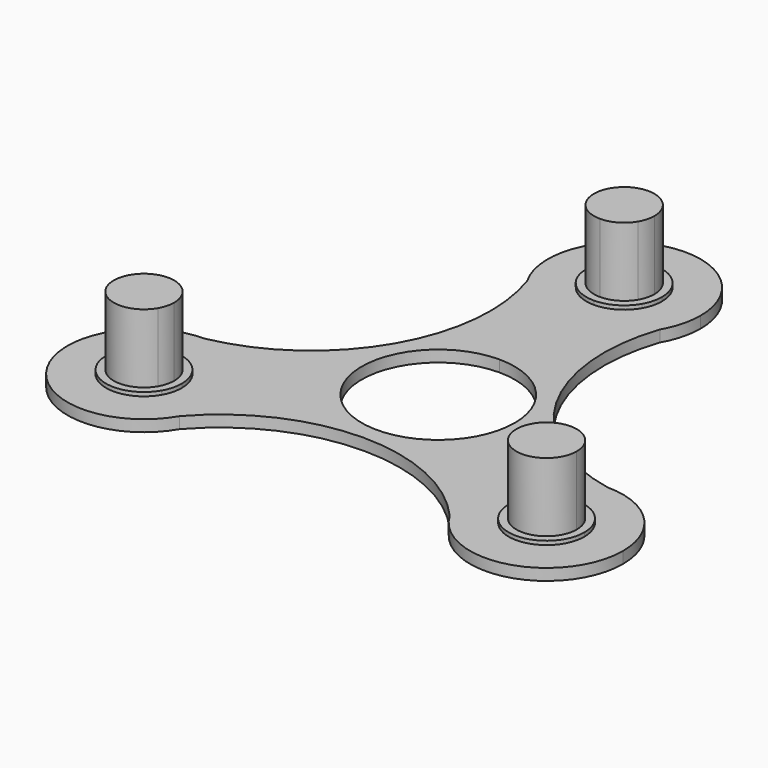
from build123d import *

# Parameters (mm, degrees)
F1_DEPTH = 1.5
F2_DEPTH = 2
F3_DEPTH = 11


with BuildPart() as f1:
    # F0 (on Top) → F1 (new body)
    with BuildSketch(Plane.XY):
        with BuildLine():
            ThreePointArc((10, 30.4), (-2.588190451, 40.0592582629), (-8.6602540378, 25.4))
            Line((-8.6602540378, 25.4), (-4.2868257487, 27.925))
            ThreePointArc((-4.2868257487, 27.925), (-1.2811542733, 35.1813328401), (4.95, 30.4))
            ThreePointArc((4.95, 30.4), (4.7813328401, 29.1188457267), (4.2868257487, 27.925))
            Line((4.2868257487, 27.925), (8.6602540378, 25.4))
            ThreePointArc((8.6602540378, 25.4), (9.6592582629, 27.811809549), (10, 30.4))
        make_face()
        with BuildLine():
            Line((0, 25.45), (0, 20.4))
            ThreePointArc((0, 20.4), (5, 21.7397459622), (8.6602540378, 25.4))
            Line((8.6602540378, 25.4), (4.2868257487, 27.925))
            ThreePointArc((4.2868257487, 27.925), (2.475, 26.1131742513), (0, 25.45))
        make_face()
        with BuildLine():
            ThreePointArc((-8.6602540378, 25.4), (-5, 21.7397459622), (0, 20.4))
            Line((0, 20.4), (0, 25.45))
            ThreePointArc((0, 25.45), (-2.475, 26.1131742513), (-4.2868257487, 27.925))
            Line((-4.2868257487, 27.925), (-8.6602540378, 25.4))
        make_face()
        with BuildLine():
            ThreePointArc((8.6602540378, 25.4), (5, 21.7397459622), (0, 20.4))
            ThreePointArc((0, 20.4), (-5, 21.7397459622), (-8.6602540378, 25.4))
            ThreePointArc((-8.6602540378, 25.4), (-10.5489683598, 6.0904497222), (-26.327172275, -5.2))
            ThreePointArc((-26.327172275, -5.2), (-19.2561044632, -8.1289321881), (-16.327172275, -15.2))
            ThreePointArc((-16.327172275, -15.2), (-16.6679140122, -17.788190451), (-17.6669182372, -20.2))
            ThreePointArc((-17.6669182372, -20.2), (0, -12.1808994444), (17.6669182372, -20.2))
            ThreePointArc((17.6669182372, -20.2), (17.6669182372, -10.2), (26.327172275, -5.2))
            ThreePointArc((26.327172275, -5.2), (10.5489683598, 6.0904497222), (8.6602540378, 25.4))
        make_face()
        with BuildLine():
            ThreePointArc((0, 10), (7.0710678119, 7.0710678119), (10, 0))
            ThreePointArc((10, 0), (-7.0710678119, -7.0710678119), (0, 10))
        make_face(mode=Mode.SUBTRACT)
        with BuildLine():
            ThreePointArc((-16.327172275, -15.2), (-19.2561044632, -8.1289321881), (-26.327172275, -5.2))
            Line((-26.327172275, -5.2), (-26.327172275, -10.25))
            ThreePointArc((-26.327172275, -10.25), (-22.8269937082, -11.6998214331), (-21.377172275, -15.2))
            ThreePointArc((-21.377172275, -15.2), (-21.5458394349, -16.4811542733), (-22.0403465263, -17.675))
            Line((-22.0403465263, -17.675), (-17.6669182372, -20.2))
            ThreePointArc((-17.6669182372, -20.2), (-16.6679140122, -17.788190451), (-16.327172275, -15.2))
        make_face()
        with BuildLine():
            Line((-26.327172275, -10.25), (-26.327172275, -5.2))
            ThreePointArc((-26.327172275, -5.2), (-34.9874263129, -20.2), (-17.6669182372, -20.2))
            Line((-17.6669182372, -20.2), (-22.0403465263, -17.675))
            ThreePointArc((-22.0403465263, -17.675), (-30.6139980238, -17.675), (-26.327172275, -10.25))
        make_face()
        with BuildLine():
            ThreePointArc((36.327172275, -15.2), (33.3982400869, -8.1289321881), (26.327172275, -5.2))
            Line((26.327172275, -5.2), (26.327172275, -10.25))
            ThreePointArc((26.327172275, -10.25), (29.8273508419, -11.6998214331), (31.277172275, -15.2))
            ThreePointArc((31.277172275, -15.2), (27.6083265483, -19.9813328401), (22.0403465263, -17.675))
            Line((22.0403465263, -17.675), (17.6669182372, -20.2))
            ThreePointArc((17.6669182372, -20.2), (28.9153627261, -24.8592582629), (36.327172275, -15.2))
        make_face()
        with BuildLine():
            Line((26.327172275, -10.25), (26.327172275, -5.2))
            ThreePointArc((26.327172275, -5.2), (17.6669182372, -10.2), (17.6669182372, -20.2))
            Line((17.6669182372, -20.2), (22.0403465263, -17.675))
            ThreePointArc((22.0403465263, -17.675), (22.0403465263, -12.725), (26.327172275, -10.25))
        make_face()
    extrude(amount=F1_DEPTH)

    # F0 (on Top) → F2 (join)
    with BuildSketch(Plane.XY):
        with BuildLine():
            ThreePointArc((4.95, 30.4), (-1.2811542733, 35.1813328401), (-4.2868257487, 27.925))
            Line((-4.2868257487, 27.925), (-3.4208003449, 28.425))
            ThreePointArc((-3.4208003449, 28.425), (-1.0223352282, 34.2154070138), (3.95, 30.4))
            ThreePointArc((3.95, 30.4), (3.8154070138, 29.3776647718), (3.4208003449, 28.425))
            Line((3.4208003449, 28.425), (4.2868257487, 27.925))
            ThreePointArc((4.2868257487, 27.925), (4.7813328401, 29.1188457267), (4.95, 30.4))
        make_face()
        with BuildLine():
            ThreePointArc((-4.2868257487, 27.925), (-2.475, 26.1131742513), (0, 25.45))
            Line((0, 25.45), (0, 26.45))
            ThreePointArc((0, 26.45), (-1.975, 26.9791996551), (-3.4208003449, 28.425))
            Line((-3.4208003449, 28.425), (-4.2868257487, 27.925))
        make_face()
        with BuildLine():
            Line((0, 26.45), (0, 25.45))
            ThreePointArc((0, 25.45), (2.475, 26.1131742513), (4.2868257487, 27.925))
            Line((4.2868257487, 27.925), (3.4208003449, 28.425))
            ThreePointArc((3.4208003449, 28.425), (1.975, 26.9791996551), (0, 26.45))
        make_face()
        with BuildLine():
            Line((26.327172275, -11.25), (26.327172275, -10.25))
            ThreePointArc((26.327172275, -10.25), (22.0403465263, -12.725), (22.0403465263, -17.675))
            Line((22.0403465263, -17.675), (22.9063719301, -17.175))
            ThreePointArc((22.9063719301, -17.175), (22.9063719301, -13.225), (26.327172275, -11.25))
        make_face()
        with BuildLine():
            ThreePointArc((31.277172275, -15.2), (29.8273508419, -11.6998214331), (26.327172275, -10.25))
            Line((26.327172275, -10.25), (26.327172275, -11.25))
            ThreePointArc((26.327172275, -11.25), (29.1202440607, -12.4069282143), (30.277172275, -15.2))
            ThreePointArc((30.277172275, -15.2), (27.3495075032, -19.0154070138), (22.9063719301, -17.175))
            Line((22.9063719301, -17.175), (22.0403465263, -17.675))
            ThreePointArc((22.0403465263, -17.675), (27.6083265483, -19.9813328401), (31.277172275, -15.2))
        make_face()
        with BuildLine():
            Line((-26.327172275, -11.25), (-26.327172275, -10.25))
            ThreePointArc((-26.327172275, -10.25), (-30.6139980238, -17.675), (-22.0403465263, -17.675))
            Line((-22.0403465263, -17.675), (-22.9063719301, -17.175))
            ThreePointArc((-22.9063719301, -17.175), (-29.74797262, -17.175), (-26.327172275, -11.25))
        make_face()
        with BuildLine():
            ThreePointArc((-21.377172275, -15.2), (-22.8269937082, -11.6998214331), (-26.327172275, -10.25))
            Line((-26.327172275, -10.25), (-26.327172275, -11.25))
            ThreePointArc((-26.327172275, -11.25), (-23.5341004894, -12.4069282143), (-22.377172275, -15.2))
            ThreePointArc((-22.377172275, -15.2), (-22.5117652612, -16.2223352282), (-22.9063719301, -17.175))
            Line((-22.9063719301, -17.175), (-22.0403465263, -17.675))
            ThreePointArc((-22.0403465263, -17.675), (-21.5458394349, -16.4811542733), (-21.377172275, -15.2))
        make_face()
    extrude(amount=F2_DEPTH)

    # F0 (on Top) → F3 (join)
    with BuildSketch(Plane.XY):
        with BuildLine():
            Line((-3.4208003449, 28.425), (0, 30.4))
            Line((0, 30.4), (3.4208003449, 28.425))
            ThreePointArc((3.4208003449, 28.425), (3.8154070138, 29.3776647718), (3.95, 30.4))
            ThreePointArc((3.95, 30.4), (-1.0223352282, 34.2154070138), (-3.4208003449, 28.425))
        make_face()
        with BuildLine():
            ThreePointArc((-3.4208003449, 28.425), (-1.975, 26.9791996551), (0, 26.45))
            Line((0, 26.45), (0, 30.4))
            Line((0, 30.4), (-3.4208003449, 28.425))
        make_face()
        with BuildLine():
            Line((0, 30.4), (0, 26.45))
            ThreePointArc((0, 26.45), (1.975, 26.9791996551), (3.4208003449, 28.425))
            Line((3.4208003449, 28.425), (0, 30.4))
        make_face()
        with BuildLine():
            ThreePointArc((-22.377172275, -15.2), (-23.5341004894, -12.4069282143), (-26.327172275, -11.25))
            Line((-26.327172275, -11.25), (-26.327172275, -15.2))
            Line((-26.327172275, -15.2), (-22.9063719301, -17.175))
            ThreePointArc((-22.9063719301, -17.175), (-22.5117652612, -16.2223352282), (-22.377172275, -15.2))
        make_face()
        with BuildLine():
            Line((-26.327172275, -15.2), (-26.327172275, -11.25))
            ThreePointArc((-26.327172275, -11.25), (-29.74797262, -17.175), (-22.9063719301, -17.175))
            Line((-22.9063719301, -17.175), (-26.327172275, -15.2))
        make_face()
        with BuildLine():
            Line((26.327172275, -15.2), (26.327172275, -11.25))
            ThreePointArc((26.327172275, -11.25), (22.9063719301, -13.225), (22.9063719301, -17.175))
            Line((22.9063719301, -17.175), (26.327172275, -15.2))
        make_face()
        with BuildLine():
            ThreePointArc((30.277172275, -15.2), (29.1202440607, -12.4069282143), (26.327172275, -11.25))
            Line((26.327172275, -11.25), (26.327172275, -15.2))
            Line((26.327172275, -15.2), (22.9063719301, -17.175))
            ThreePointArc((22.9063719301, -17.175), (27.3495075032, -19.0154070138), (30.277172275, -15.2))
        make_face()
    extrude(amount=F3_DEPTH)


solid = f1.part
